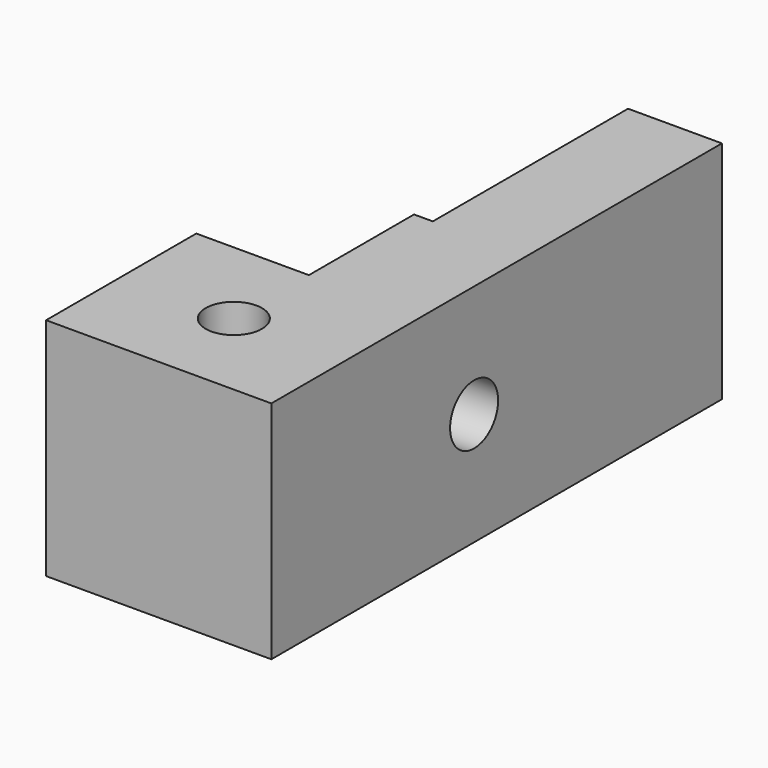
from build123d import *

# Parameters (mm, degrees)
F0_R     = 1.5
F1_DEPTH = 6
F4_DEPTH = 25


with BuildPart() as f1:
    # F0 (on Top) → F1 (new body, symmetric)
    with BuildSketch(Plane.XY):
        Polygon((6, -10), (6, 20), (1, 20), (1, 7), (0, 7), (0, 0), (-6, 0), (-6, -10), align=None)
        with Locations((0, -5)):
            Circle(F0_R, mode=Mode.SUBTRACT)
    extrude(amount=F1_DEPTH, both=True)

    # F3 (on offset) → F4 (cut)
    with BuildSketch(Plane.YZ.offset(6)):
        with BuildLine():
            ThreePointArc((1.9, 0), (3.5, -1.6), (5.1, 0))
            ThreePointArc((5.1, 0), (3.5, 1.6), (1.9, 0))
        make_face()
    extrude(amount=-F4_DEPTH, mode=Mode.SUBTRACT)


solid = f1.part
